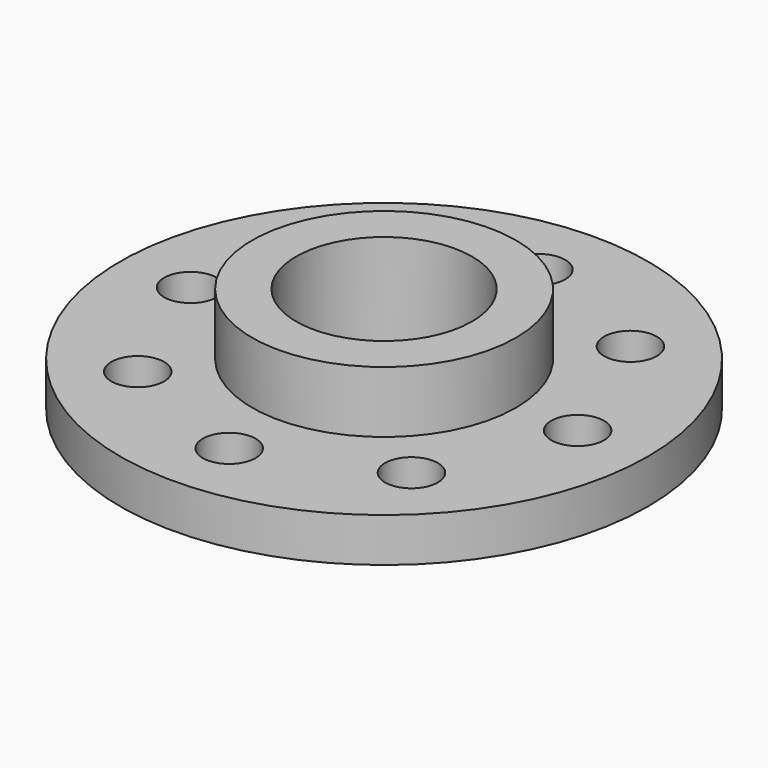
from build123d import *

# Parameters (mm, degrees)
CYLINDER003_R     = 3
CYLINDER003_DEPTH = 10
ARRAY_COUNT       = 8
CYLINDER002_R     = 10
CYLINDER002_DEPTH = 30
CYLINDER_R        = 30
CYLINDER_DEPTH    = 5
CYLINDER001_R     = 15
CYLINDER001_DEPTH = 12


with BuildPart() as array:
    # Cylinder003 → Cylinder003 (new body)
    with BuildSketch(Plane(origin=(22, 0, -1), x_dir=(1, 0, 0), z_dir=(0, 0, 1))):
        Circle(CYLINDER003_R)
    extrude(amount=CYLINDER003_DEPTH)

    # Array: Array ×8 about axis
    array_axis = Axis((0, 0, 0), (0, 0, 1))


with BuildPart() as array_1:
    add(array.part)
    for i in range(1, ARRAY_COUNT):
        add(array.part.rotate(array_axis, i * 360 / ARRAY_COUNT))


with BuildPart() as tubo_interior:
    # Cylinder002 → Cylinder002 (new body)
    with BuildSketch(Plane.XY.offset(-1)):
        Circle(CYLINDER002_R)
    extrude(amount=CYLINDER002_DEPTH)


with BuildPart() as base:
    # Cylinder → Cylinder (new body)
    with BuildSketch(Plane.XY):
        Circle(CYLINDER_R)
    extrude(amount=CYLINDER_DEPTH)


with BuildPart() as cut001:
    # Cylinder001 → Cylinder001 (new body)
    with BuildSketch(Plane.XY):
        Circle(CYLINDER001_R)
    extrude(amount=CYLINDER001_DEPTH)

    # Fusion: union base
    add(base.part)

    # Cut: cut tubo interior
    add(tubo_interior.part, mode=Mode.SUBTRACT)

    # Cut001: cut Array
    add(array_1.part, mode=Mode.SUBTRACT)


solid = cut001.part
